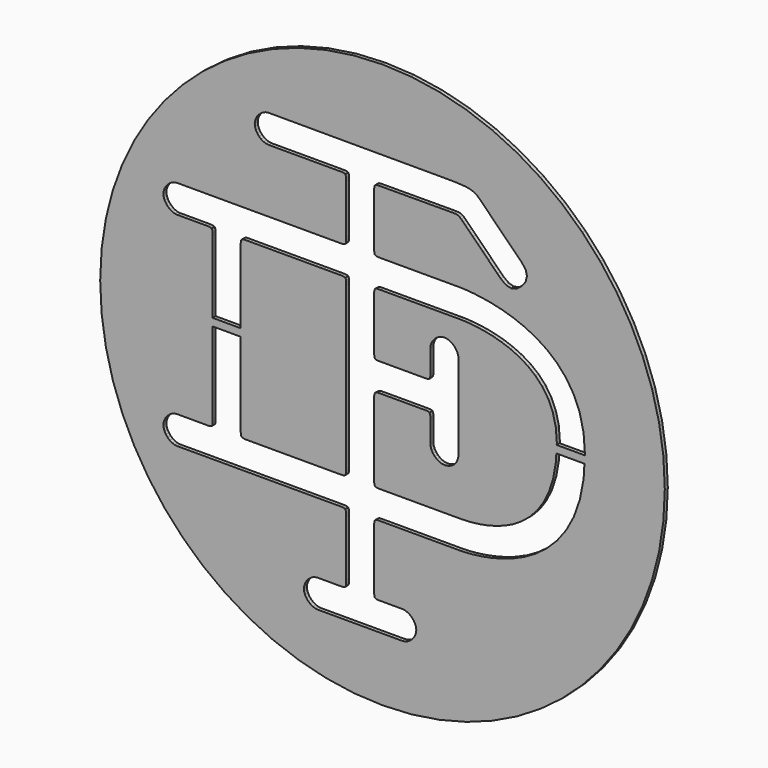
from build123d import *

# Parameters (mm, degrees)
F0_W     = 7.477194
F0_H     = 2
F1_DEPTH = 1


with BuildPart() as f1:
    # F0 (on Front) → F1 (new body)
    with BuildSketch(Plane.XZ):
        Polygon((7.673978, 74.613259), (1.1e-05, 75), (-7.674757, 74.613259), (-15.126128, 73.476256), (-22.318871, 71.629027), (-29.215153, 69.107003), (-35.775939, 65.949018), (-41.963996, 62.192305), (-47.741891, 57.874297), (-53.071991, 53.034029), (-57.915663, 47.708132), (-62.236874, 41.93364), (-65.995668, 35.749787), (-69.157096, 29.194606), (-71.681002, 22.303729), (-73.529452, 15.116391), (-74.667576, 7.669423), (-75.054197, 6e-05), (-74.667576, -7.667302), (-73.529452, -15.114269), (-71.681002, -22.301607), (-69.157096, -29.192484), (-65.995668, -35.748866), (-62.236874, -41.932519), (-57.915663, -47.70601), (-53.071991, -53.032908), (-47.741891, -57.873377), (-41.963996, -62.190384), (-35.775939, -65.946876), (-29.215153, -69.105041), (-22.318871, -71.627886), (-15.126128, -73.475235), (-7.674757, -74.612298), (1.1e-05, -75), (7.673978, -74.612298), (15.124949, -73.475235), (22.318093, -71.627886), (29.214174, -69.105041), (35.77496, -65.946876), (41.963217, -62.190384), (47.740712, -57.873377), (53.071013, -53.032908), (57.914684, -47.70601), (62.236095, -41.932519), (65.994609, -35.748866), (69.155997, -29.192484), (71.679823, -22.301607), (73.528453, -15.114269), (74.666657, -7.667302), (75.054199, 6e-05), (74.666657, 7.669423), (73.528453, 15.116391), (71.679823, 22.303729), (69.155997, 29.194606), (65.994609, 35.749787), (62.236095, 41.93364), (57.914684, 47.708132), (53.071013, 53.034029), (47.740712, 57.874297), (41.963217, 62.192305), (35.77496, 65.949018), (29.214174, 69.107003), (22.318093, 71.629027), (15.124949, 73.476256), align=None)
        Polygon((-28.991356, 46.318907), (-30.253268, 46.318907), (-30.950683, 46.403782), (-31.622876, 46.640591), (-32.25063, 47.007514), (-32.811124, 47.485536), (-33.284542, 48.049033), (-33.649463, 48.680189), (-33.882869, 49.353183), (-33.965542, 50.048196), (-33.882869, 50.747813), (-33.649463, 51.428613), (-33.284542, 52.068377), (-32.811925, 52.643084), (-32.25063, 53.130514), (-31.622876, 53.507446), (-30.950683, 53.74966), (-30.253268, 53.835536), (-29.610502, 53.835536), (-28.419251, 53.834335), (-26.739169, 53.831132), (-24.627908, 53.827729), (-22.145118, 53.824726), (-19.348652, 53.820322), (-16.299163, 53.815718), (-13.0529, 53.811515), (-9.669917, 53.807111), (-6.209865, 53.802707), (-2.728996, 53.798503), (0.711438, 53.7953), (4.052985, 53.791897), (7.238394, 53.788895), (10.208814, 53.787694), (12.904191, 53.786493), (16.147051, 53.784291), (18.717718, 53.762672), (20.718282, 53.697614), (22.252635, 53.566098), (23.424468, 53.346705), (24.337874, 53.013411), (25.095942, 52.545198), (25.804167, 51.918645), (26.744396, 50.978016), (28.079173, 49.643239), (29.676782, 48.04563), (31.406908, 46.318106), (33.135832, 44.590183), (34.733441, 42.992574), (36.068218, 41.657797), (37.009649, 40.716166), (38.060976, 39.318534), (38.411685, 37.9199), (38.060976, 36.519665), (37.009649, 35.117629), (35.609814, 34.069705), (34.20998, 33.719997), (32.808944, 34.069705), (31.407909, 35.117629), (30.546749, 35.982191), (29.423759, 37.111587), (28.126014, 38.41794), (26.740192, 39.812569), (25.353569, 41.2082), (24.054624, 42.514752), (22.930433, 43.642947), (22.068072, 44.504307), (21.448125, 45.122252), (20.960495, 45.58486), (20.558341, 45.917153), (20.199024, 46.139749), (19.838706, 46.275469), (19.431347, 46.34493), (18.93591, 46.369952), (18.306155, 46.373355), (17.024424, 46.371153), (14.798261, 46.365548), (11.947547, 46.356941), (8.794767, 46.346131), (5.664807, 46.336322), (2.878149, 46.327715), (0.759281, 46.32231), (-0.370316, 46.318907), (-0.978452, 46.315904), (-1.435655, 46.290882), (-1.762744, 46.222422), (-1.981937, 46.089705), (-2.115455, 45.870512), (-2.183915, 45.543423), (-2.208937, 45.087421), (-2.21214, 44.479285), (-2.21214, 43.458385), (-2.21214, 41.912021), (-2.21214, 40.015749), (-2.21214, 37.944522), (-2.21214, 35.874697), (-2.21214, 33.979625), (-2.21214, 32.434063), (-2.21214, 31.413162), (-2.208937, 30.788812), (-2.183915, 30.318597), (-2.115455, 29.9819), (-1.981937, 29.755901), (-1.762744, 29.61918), (-1.435655, 29.548518), (-0.978452, 29.522495), (-0.370316, 29.518291), (0.972068, 29.518291), (3.365779, 29.518291), (6.460708, 29.518291), (9.905747, 29.518291), (13.352586, 29.518291), (16.450118, 29.518291), (18.850234, 29.518291), (20.202227, 29.518291), (20.882026, 29.509684), (22.173365, 29.452833), (23.986164, 29.310908), (26.22754, 29.041471), (28.809017, 28.606087), (31.640314, 27.961919), (34.631351, 27.071333), (37.690449, 25.891893), (40.729329, 24.385565), (43.65631, 22.510111), (46.380913, 20.226097), (48.814659, 17.493687), (50.865067, 14.271446), (52.443259, 10.520338), (53.458554, 6.200128), (53.821274, 1.268379), (53.805294, 1), (53.686204, -1), (53.469364, -4.641633), (52.461475, -9.80899), (50.889088, -14.282335), (48.841883, -18.112913), (46.410339, -21.350168), (43.684335, -24.043743), (40.756553, -26.242883), (37.715471, -27.998831), (34.651969, -29.361833), (31.657729, -30.380732), (28.822028, -31.105971), (26.236148, -31.586996), (23.991368, -31.874049), (22.176768, -32.017175), (20.883227, -32.067219), (20.202227, -32.072424), (18.636246, -32.072424), (16.136241, -32.072424), (13.023696, -32.072424), (9.624298, -32.072424), (6.261132, -32.072424), (3.257083, -32.072424), (0.936036, -32.072424), (-0.37552, -32.072424), (-0.981655, -32.074626), (-1.437857, -32.096445), (-1.763744, -32.161702), (-1.981937, -32.291016), (-2.114454, -32.508208), (-2.182714, -32.836297), (-2.207736, -33.296503), (-2.211139, -33.912446), (-2.211139, -35.044044), (-2.211139, -36.877261), (-2.211139, -39.16648), (-2.211139, -41.664282), (-2.211139, -44.127455), (-2.211139, -46.308378), (-2.211139, -47.962236), (-2.211139, -48.843013), (-2.208937, -49.467564), (-2.187118, -49.937578), (-2.123261, -50.274275), (-1.993947, -50.500475), (-1.776756, -50.637195), (-1.449868, -50.707858), (-0.990262, -50.733881), (-0.37552, -50.738084), (5.231224, -50.738084), (5.928639, -50.821758), (6.605236, -51.058567), (7.240596, -51.425691), (7.810699, -51.903512), (8.293925, -52.46821), (8.666454, -53.099166), (8.906465, -53.773561), (8.992341, -54.470776), (8.907666, -55.165789), (8.671058, -55.840384), (8.302533, -56.47134), (7.826113, -57.037039), (7.260013, -57.515061), (6.629257, -57.884186), (5.954662, -58.120995), (5.257447, -58.20567), (3.822782, -58.20567), (1.190261, -58.20567), (-2.237162, -58.20567), (-6.055529, -58.20567), (-9.861085, -58.20567), (-13.249473, -58.20567), (-15.816937, -58.20567), (-17.15812, -58.20567), (-17.856336, -58.120995), (-18.532933, -57.884186), (-19.167092, -57.515061), (-19.735193, -57.037039), (-20.214215, -56.47134), (-20.58234, -55.840384), (-20.814745, -55.165789), (-20.889811, -54.470776), (-20.800532, -53.773561), (-20.563924, -53.099166), (-20.201204, -52.46821), (-19.73219, -51.903512), (-19.179102, -51.425691), (-18.560157, -51.058567), (-17.898773, -50.821758), (-17.212368, -50.738084), (-15.657197, -50.738084), (-14.013947, -50.738084), (-12.555461, -50.738084), (-11.550975, -50.738084), (-10.935232, -50.733881), (-10.472624, -50.708858), (-10.140331, -50.639397), (-9.917535, -50.503477), (-9.782816, -50.281081), (-9.713355, -49.948588), (-9.688533, -49.484779), (-9.684129, -48.868035), (-9.684129, -47.744044), (-9.684129, -45.931445), (-9.684129, -43.667049), (-9.684129, -41.190865), (-9.684129, -38.741905), (-9.684129, -36.556778), (-9.684129, -34.875696), (-9.684129, -33.937468), (-9.688533, -33.321525), (-9.713355, -32.858917), (-9.782816, -32.527625), (-9.917535, -32.30603), (-10.140331, -32.171511), (-10.472624, -32.10185), (-10.935232, -32.076827), (-11.550975, -32.073625), (-12.322055, -32.073625), (-13.858811, -32.073625), (-16.052545, -32.073625), (-18.793763, -32.073625), (-21.973567, -32.073625), (-25.48126, -32.073625), (-29.208547, -32.073625), (-33.04433, -32.073625), (-36.881313, -32.073625), (-40.6086, -32.073625), (-44.116694, -32.073625), (-47.295297, -32.073625), (-50.037515, -32.073625), (-52.23125, -32.073625), (-53.768005, -32.073625), (-54.538084, -32.073625), (-55.233097, -31.98915), (-55.90529, -31.752141), (-56.530842, -31.383016), (-57.091336, -30.904994), (-57.564753, -30.340296), (-57.928674, -29.70934), (-58.16208, -29.035145), (-58.244753, -28.339932), (-58.163281, -27.642717), (-57.930876, -26.967121), (-57.57236, -26.336365), (-57.110953, -25.771267), (-56.570076, -25.294847), (-55.970548, -24.926522), (-55.33839, -24.689913), (-54.694422, -24.606239), (-52.888229, -24.606239), (-50.763155, -24.606239), (-48.695132, -24.606239), (-47.065094, -24.606239), (-46.396104, -24.601635), (-45.906272, -24.575813), (-45.567373, -24.506351), (-45.352384, -24.36923), (-45.232878, -24.143431), (-45.182034, -23.806935), (-45.172025, -23.33672), (-45.174227, -22.712369), (-45.174227, -21.943291), (-45.174227, -20.408538), (-45.174227, -18.218006), (-45.174227, -15.480392), (-45.174227, -12.305792), (-45.174227, -8.803303), (-45.174227, -5.081421), (-45.174227, -1.250042), (-45.174227, -1), (-45.174227, 1), (-45.174227, 2.581336), (-45.174227, 6.303219), (-45.174227, 9.806708), (-45.174227, 12.982309), (-45.174227, 15.720323), (-45.174227, 17.910855), (-45.174227, 19.446209), (-45.174227, 20.215287), (-45.181033, 20.823423), (-45.211259, 21.279626), (-45.287527, 21.607715), (-45.429452, 21.826908), (-45.657853, 21.959425), (-45.993349, 22.027685), (-46.455957, 22.052708), (-47.065094, 22.056111), (-48.770198, 22.056111), (-50.810998, 22.056111), (-52.848194, 22.056111), (-54.538084, 22.056111), (-55.233097, 22.140985), (-55.90529, 22.377594), (-56.530842, 22.744518), (-57.091336, 23.222339), (-57.564753, 23.787037), (-57.928674, 24.416993), (-58.16208, 25.092588), (-58.244753, 25.788802), (-58.16208, 26.485016), (-57.928674, 27.15801), (-57.564753, 27.788165), (-57.091336, 28.352863), (-56.530842, 28.829484), (-55.90529, 29.197608), (-55.233097, 29.433416), (-54.538084, 29.51709), (-53.834464, 29.51709), (-52.346352, 29.51709), (-50.186447, 29.51709), (-47.466848, 29.51709), (-44.297854, 29.51709), (-40.79016, 29.51709), (-37.056268, 29.51709), (-33.206273, 29.51709), (-29.350873, 29.51709), (-25.603168, 29.51709), (-22.072454, 29.51709), (-18.870831, 29.51709), (-16.108995, 29.51709), (-13.897845, 29.51709), (-12.35028, 29.51709), (-11.574997, 29.51709), (-10.958053, 29.521294), (-10.492042, 29.547517), (-10.155345, 29.616978), (-9.928545, 29.753699), (-9.788421, 29.979698), (-9.714356, 30.316395), (-9.68513, 30.78661), (-9.679725, 31.41096), (-9.679725, 32.433062), (-9.679725, 33.978625), (-9.679725, 35.874697), (-9.679725, 37.944522), (-9.679725, 40.015749), (-9.679725, 41.91082), (-9.679725, 43.457183), (-9.679725, 44.478084), (-9.684129, 45.08642), (-9.710152, 45.542422), (-9.780814, 45.869311), (-9.917535, 46.088704), (-10.143334, 46.221221), (-10.480031, 46.289681), (-10.950446, 46.314703), (-11.574997, 46.318106), (-12.830103, 46.318907), (-15.008825, 46.318907), (-17.803089, 46.318907), (-20.906025, 46.318907), (-24.009762, 46.318907), (-26.80743, 46.318907), align=None, mode=Mode.SUBTRACT)
        Polygon((-37.697033, 2.677021), (-37.697033, 1), (-37.697033, -1), (-37.697033, -1.15656), (-37.697033, -4.991342), (-37.697033, -8.716627), (-37.697033, -12.221117), (-37.697033, -15.395517), (-37.697033, -18.127926), (-37.697033, -20.309851), (-37.697033, -21.830391), (-37.697033, -22.578451), (-37.69383, -23.210809), (-37.668808, -23.696237), (-37.600347, -24.053352), (-37.468031, -24.303172), (-37.249438, -24.463914), (-36.92275, -24.554994), (-36.467749, -24.59523), (-35.860413, -24.605038), (-34.357488, -24.605038), (-31.540403, -24.605038), (-27.848948, -24.605038), (-23.718706, -24.605038), (-19.589664, -24.605038), (-15.898409, -24.605038), (-13.083127, -24.605038), (-11.580201, -24.605038), (-10.953448, -24.600835), (-10.482233, -24.574812), (-10.144535, -24.504149), (-9.917535, -24.367429), (-9.780814, -24.141229), (-9.710152, -23.804532), (-9.684129, -23.334518), (-9.679725, -22.709967), (-9.679725, -21.938887), (-9.679725, -20.397728), (-9.679725, -18.198589), (-9.679725, -15.449765), (-9.679725, -12.262554), (-9.679725, -8.746854), (-9.679725, -5.012961), (-9.679725, -1.170772), (-9.679725, 2.668413), (-9.679725, 6.3957), (-9.679725, 9.89899), (-9.679725, 13.070386), (-9.679725, 15.797191), (-9.679725, 17.971709), (-9.679725, 19.48104), (-9.679725, 20.216488), (-9.684129, 20.832231), (-9.710152, 21.291636), (-9.780814, 21.619526), (-9.917535, 21.836717), (-10.143334, 21.967032), (-10.480031, 22.03229), (-10.950446, 22.054909), (-11.575997, 22.057111), (-13.080124, 22.057111), (-15.896207, 22.057111), (-19.588664, 22.057111), (-23.717505, 22.057111), (-27.846746, 22.057111), (-31.538001, 22.057111), (-34.353084, 22.057111), (-35.855209, 22.057111), (-36.463345, 22.053909), (-36.920548, 22.028887), (-37.247636, 21.960426), (-37.46683, 21.826908), (-37.600347, 21.607715), (-37.668808, 21.279626), (-37.69383, 20.821422), (-37.697033, 20.211884), (-37.697033, 19.476836), (-37.697033, 17.967305), (-37.697033, 15.793988), (-37.697033, 13.068184), (-37.697033, 9.89899), (-37.697033, 6.398703), align=None)
        Polygon((46.213136, -1), (46.320402, 1), (46.348484, 1.523604), (46.070439, 5.138992), (45.292753, 8.301381), (44.084087, 11.043799), (42.5113, 13.395073), (40.644654, 15.385828), (38.550607, 17.045091), (36.298421, 18.402689), (33.956957, 19.490848), (31.593672, 20.337995), (29.27823, 20.974357), (27.07809, 21.43156), (25.061312, 21.736629), (23.297556, 21.922393), (21.854284, 22.018077), (20.799754, 22.052708), (20.203428, 22.057111), (18.851435, 22.057111), (16.451119, 22.057111), (13.352586, 22.057111), (9.905747, 22.057111), (6.460708, 22.057111), (3.365779, 22.057111), (0.972068, 22.057111), (-0.370316, 22.057111), (-0.978452, 22.053909), (-1.434654, 22.028887), (-1.762744, 21.960426), (-1.981937, 21.828109), (-2.114454, 21.608716), (-2.182714, 21.281828), (-2.207736, 20.825625), (-2.211139, 20.217489), (-2.211139, 19.196589), (-2.211139, 17.651026), (-2.211139, 15.754954), (-2.211139, 13.685128), (-2.211139, 11.614903), (-2.211139, 9.718831), (-2.211139, 8.173268), (-2.211139, 7.151567), (-2.207736, 6.526816), (-2.182714, 6.056801), (-2.114454, 5.720104), (-1.981937, 5.494305), (-1.762744, 5.357184), (-1.434654, 5.286522), (-0.978452, 5.260699), (-0.370316, 5.256295), (0.456213, 5.256295), (1.737743, 5.256295), (3.327746, 5.256295), (5.082493, 5.256295), (6.856057, 5.256295), (8.502509, 5.256295), (9.876521, 5.256295), (10.834365, 5.256295), (11.458716, 5.260699), (11.928931, 5.286522), (12.265628, 5.357184), (12.491627, 5.494305), (12.628348, 5.720104), (12.69901, 6.056801), (12.725033, 6.526816), (12.729236, 7.151567), (12.729236, 9.835133), (12.729236, 12.749904), (12.81291, 13.444917), (13.05092, 14.116109), (13.420246, 14.742661), (13.897867, 15.302154), (14.463966, 15.775572), (15.094723, 16.139493), (15.770318, 16.373099), (16.466532, 16.455371), (17.162546, 16.373099), (17.836941, 16.139493), (18.467897, 15.775572), (19.033796, 15.302154), (19.512819, 14.742661), (19.880943, 14.116109), (20.118553, 13.444917), (20.203428, 12.749904), (20.203428, 11.37389), (20.203428, 8.881492), (20.203428, 5.626622), (20.203428, 1.965593), (20.203428, -1.749683), (20.203428, -5.164094), (20.203428, -7.922527), (20.203428, -9.673271), (20.118553, -10.532428), (19.880943, -11.283891), (19.512819, -11.924656), (19.033796, -12.453522), (18.467897, -12.867287), (17.836941, -13.16495), (17.162546, -13.345109), (16.466532, -13.405962), (15.770318, -13.320087), (15.094723, -13.081276), (14.463966, -12.709748), (13.897867, -12.229725), (13.420246, -11.662825), (13.05092, -11.03307), (12.81291, -10.361878), (12.729236, -9.673271), (12.729236, -4.049911), (12.724032, -3.441575), (12.695607, -2.985373), (12.622743, -2.658685), (12.48382, -2.439291), (12.25702, -2.306774), (11.922525, -2.238314), (11.456514, -2.213292), (10.83957, -2.210089), (8.561161, -2.210089), (5.233426, -2.210089), (1.906092, -2.210089), (-0.370316, -2.210089), (-0.978452, -2.221899), (-1.434654, -2.26754), (-1.762744, -2.361022), (-1.981937, -2.516359), (-2.114454, -2.748764), (-2.182714, -3.072449), (-2.207736, -3.501428), (-2.211139, -4.049911), (-2.211139, -5.309622), (-2.211139, -7.489345), (-2.211139, -10.281607), (-2.211139, -13.379939), (-2.211139, -16.478472), (-2.211139, -19.270534), (-2.211139, -21.451057), (-2.211139, -22.71317), (-2.207736, -23.33672), (-2.182714, -23.805733), (-2.114454, -24.141229), (-1.981937, -24.367429), (-1.762744, -24.504149), (-1.434654, -24.573611), (-0.978452, -24.599834), (-0.370316, -24.604037), (0.867776, -24.604037), (3.006262, -24.604037), (5.786514, -24.604037), (8.947902, -24.604037), (12.229596, -24.604037), (15.372768, -24.604037), (18.117188, -24.604037), (20.203428, -24.605038), (21.108025, -24.598633), (22.391758, -24.554194), (23.994771, -24.432486), (25.857214, -24.196678), (27.916229, -23.806935), (30.114368, -23.226823), (32.388573, -22.416709), (34.679994, -21.338358), (36.926976, -19.954938), (39.069665, -18.225813), (41.04861, -16.11335), (42.800355, -13.581917), (44.267649, -10.589879), (45.388438, -7.100402), (46.101867, -3.074651), align=None)
        with Locations((-41.43563, 0)):
            Rectangle(F0_W, F0_H)
        Polygon((53.686204, -1), (53.805294, 1), (46.320402, 1), (46.213136, -1), align=None)
    extrude(amount=F1_DEPTH)


solid = f1.part
